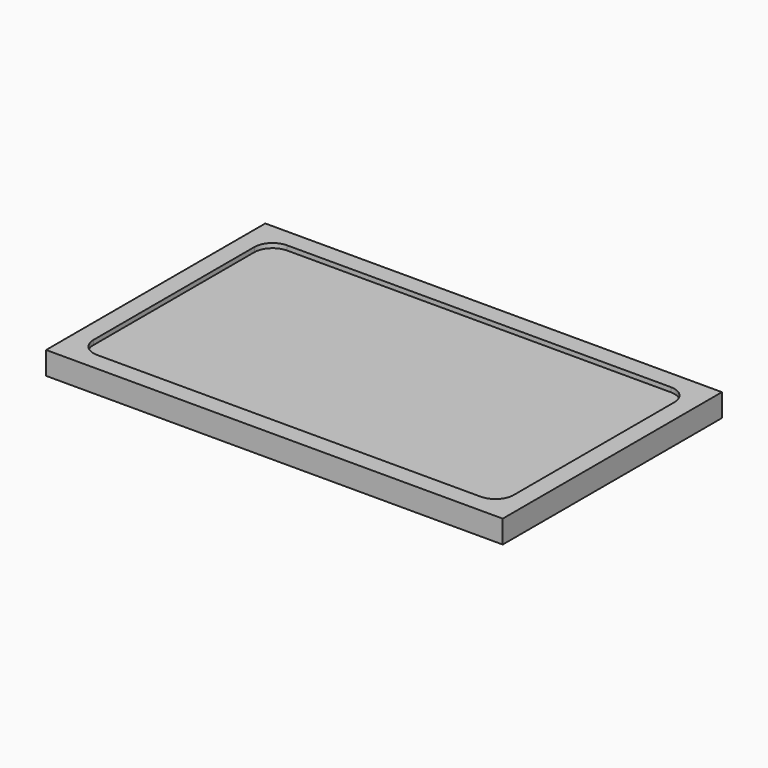
from build123d import *

# Parameters (mm, degrees)
F0_W     = 127
F0_H     = 76.2
F1_DEPTH = 6.35
F2_T     = -5.08
F3_R     = 5.08
F4_R     = 5.08
F5_R     = 5.08
F6_R     = 5.08


with BuildPart() as f1:
    # F0 (on Top) → F1 (new body)
    with BuildSketch(Plane.XY):
        Rectangle(F0_W, F0_H)
    extrude(amount=F1_DEPTH)

    # F2
    f2_openings = [f1.faces().sort_by_distance(p)[0] for p in [
        (0, 0, 6.35),
    ]]
    offset(amount=F2_T, openings=f2_openings)

    # F3
    f3_edges = [f1.edges().sort_by_distance(p)[0] for p in [
        (58.42, 33.02, 5.715),
    ]]
    fillet(f3_edges, radius=F3_R)

    # F4
    f4_edges = [f1.edges().sort_by_distance(p)[0] for p in [
        (-58.42, 33.02, 5.715),
    ]]
    fillet(f4_edges, radius=F4_R)

    # F5
    f5_edges = [f1.edges().sort_by_distance(p)[0] for p in [
        (-58.42, -33.02, 5.715),
    ]]
    fillet(f5_edges, radius=F5_R)

    # F6
    f6_edges = [f1.edges().sort_by_distance(p)[0] for p in [
        (58.42, -33.02, 5.715),
    ]]
    fillet(f6_edges, radius=F6_R)


solid = f1.part
